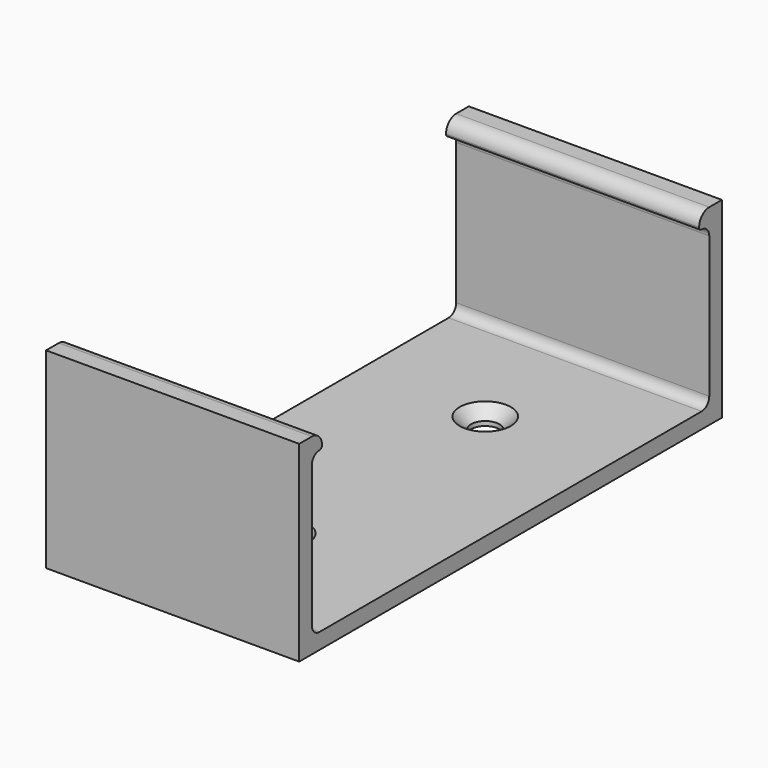
from build123d import *

# Parameters (mm, degrees)
SKETCH_W     = 40
SKETCH_H     = 78.5
PAD_DEPTH    = 2.5
SKETCH001_W  = 40
SKETCH001_H  = 27.8
PAD001_DEPTH = 2.5
SKETCH002_W  = 40
SKETCH002_H  = 27.8
PAD002_DEPTH = 2.5
SKETCH003_W  = 40
SKETCH003_H  = 4.5
PAD003_DEPTH = 2.5
FILLET_R     = 1.5
FILLET001_R  = 2
FILLET002_R  = 0.49
SKETCH004_R  = 2.25
POCKET_DEPTH = 5
CHAMFER_SIZE = 1.8


with BuildPart() as part:
    # Sketch → Pad (new body)
    with BuildSketch(Plane.XY):
        Rectangle(SKETCH_W, SKETCH_H)
    extrude(amount=PAD_DEPTH)

    # Sketch001 (on Face3 of Pad) → Pad001 (join)
    with BuildSketch(Plane.XZ.offset(39.25)):
        with Locations((0, 13.9)):
            Rectangle(SKETCH001_W, SKETCH001_H)
    extrude(amount=PAD001_DEPTH)

    # Sketch002 (on Face1 of Pad001) → Pad002 (join)
    with BuildSketch(Plane(origin=(0, 39.25, 0), x_dir=(-1, 0, 0), z_dir=(0, 1, 0))):
        with Locations((0, 13.9)):
            Rectangle(SKETCH002_W, SKETCH002_H)
    extrude(amount=PAD002_DEPTH)

    # Sketch003 (on Face6 of Pad002) → Pad003 (join)
    with BuildSketch(Plane.XY.offset(27.8)):
        with Locations((0, 39.5)):
            Rectangle(SKETCH003_W, SKETCH003_H)
        with Locations((0, -39.5)):
            Rectangle(SKETCH003_W, SKETCH003_H)
    extrude(amount=PAD003_DEPTH)

    # Fillet
    fillet_edges = [part.edges().sort_by_distance(p)[0] for p in [
        (0, -39.25, 2.5),
        (0, 39.25, 2.5),
        (0, 39.25, 27.8),
        (0, -39.25, 27.8),
    ]]
    fillet(fillet_edges, radius=FILLET_R)

    # Fillet001
    fillet001_edges = [part.edges().sort_by_distance(p)[0] for p in [
        (0, 37.25, 30.3),
        (0, -37.25, 30.3),
    ]]
    fillet(fillet001_edges, radius=FILLET001_R)

    # Fillet002
    fillet002_edges = [part.edges().sort_by_distance(p)[0] for p in [
        (0, 37.25, 27.8),
        (0, -37.25, 27.8),
    ]]
    fillet(fillet002_edges, radius=FILLET002_R)

    # Sketch004 (on Face17 of Fillet002) → Pocket (cut)
    with BuildSketch(Plane.XY.offset(2.5)):
        with Locations((0, 20)):
            Circle(SKETCH004_R)
        with Locations((0, -20)):
            Circle(SKETCH004_R)
    extrude(amount=-POCKET_DEPTH, mode=Mode.SUBTRACT)

    # Chamfer
    chamfer_edges = [part.edges().sort_by_distance(p)[0] for p in [
        (-2.25, -20, 2.5),
        (-2.25, 20, 2.5),
    ]]
    chamfer(chamfer_edges, length=CHAMFER_SIZE)


solid = part.part
